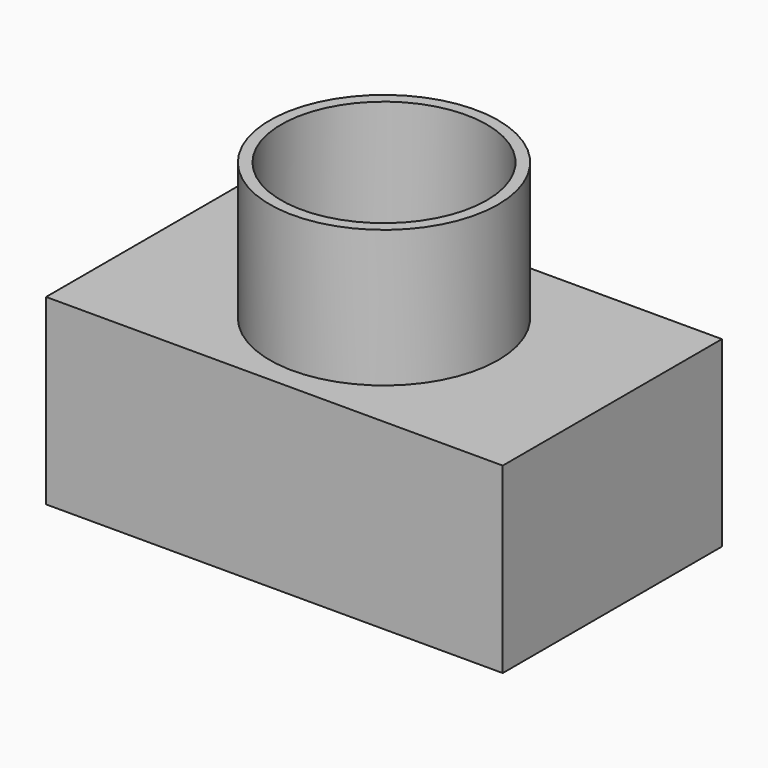
from build123d import *

# Parameters (mm, degrees)
F0_W     = 100
F0_H     = 60
F1_DEPTH = 40
F2_R     = 25
F3_DEPTH = 30
F4_T     = -2.5


with BuildPart() as f1:
    # F0 (on Top) → F1 (new body)
    with BuildSketch(Plane.XY):
        Rectangle(F0_W, F0_H)
    extrude(amount=F1_DEPTH)

    # F2 (on face) → F3 (join)
    with BuildSketch(Plane.XY.offset(40)):
        Circle(F2_R)
    extrude(amount=F3_DEPTH)

    # F4
    f4_openings = [f1.faces().sort_by_distance(p)[0] for p in [
        (0, 0, 70),
    ]]
    offset(amount=F4_T, openings=f4_openings, kind=Kind.INTERSECTION)


solid = f1.part
